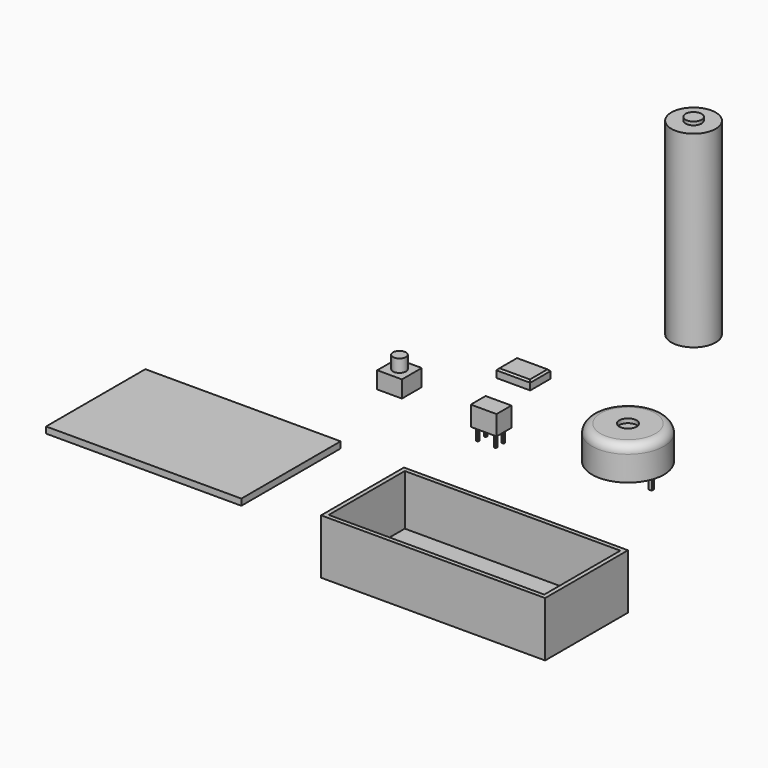
from build123d import *

# Parameters (mm, degrees)
F0_W      = 6.1
F0_H      = 4.39
F1_DEPTH  = 4.65
F2_W      = 0.448795
F2_H      = 0.48622
F2_H_2    = 0.448818
F3_DEPTH  = 3
F4_W      = 5.85
F4_H      = 5.85
F5_DEPTH  = 4
F6_R      = 1.5339
F7_DEPTH  = 3
F8_R      = 8.5
F9_DEPTH  = 7.9
F10_R     = 2
F11_R     = 2.045194
F12_DEPTH = 1
F13_W     = 0.777537
F13_H     = 0.820734
F13_W_2   = 0.777539
F13_H_2   = 0.699977
F14_DEPTH = 4
F15_W     = 8
F15_H     = 6
F16_DEPTH = 2
F17_SIZE  = 0.4
F18_R     = 5.25
F19_DEPTH = 44.5
F20_R     = 1.9
F21_DEPTH = 0.8
F22_W     = 46.203874
F22_H     = 29.349632
F23_DEPTH = 1.5
F24_W     = 53
F24_H     = 24.5
F25_DEPTH = 1
F26_W     = 53
F26_H     = 24.5
F26_W_2   = 51
F26_H_2   = 22.5
F27_DEPTH = 12
F28_R     = 1.5
F29_DEPTH = 1


with BuildPart() as f1:
    # F0 (on Top) → F1 (new body)
    with BuildSketch(Plane.XY):
        Rectangle(F0_W, F0_H)
    extrude(amount=F1_DEPTH)

    # F2 (on face) → F3 (join)
    with BuildSketch(Plane(origin=(0, 0, 0), x_dir=(1, 0, 0), z_dir=(0, 0, -1))):
        with Locations((-2.139867, 1.227854)):
            Rectangle(F2_W, F2_H)
        with Locations((-2.139867, -1.053639)):
            Rectangle(F2_W, F2_H_2)
        with Locations((2.048888, 1.227854)):
            Rectangle(F2_W, F2_H)
        with Locations((2.048888, -1.053639)):
            Rectangle(F2_W, F2_H_2)
    extrude(amount=F3_DEPTH)


with BuildPart() as f5:
    # F4 (on Top) → F5 (new body)
    with BuildSketch(Plane.XY):
        with Locations((-22.972229, 1.6239)):
            Rectangle(F4_W, F4_H)
    extrude(amount=F5_DEPTH)

    # F6 (on face) → F7 (join)
    with BuildSketch(Plane.XY.offset(4)):
        with Locations((-22.972229, 1.6239)):
            Circle(F6_R)
    extrude(amount=F7_DEPTH)


with BuildPart() as f9:
    # F8 (on Top) → F9 (new body)
    with BuildSketch(Plane.XY):
        with Locations((28.258514, 5.165863)):
            Circle(F8_R)
    extrude(amount=F9_DEPTH)

    # F10
    f10_edges = [f9.edges().sort_by_distance(p)[0] for p in [
        (19.758514, 5.165863, 7.9),
    ]]
    fillet(f10_edges, radius=F10_R)

    # F11 (on face) → F12 (cut)
    with BuildSketch(Plane.XY.offset(7.9)):
        with Locations((28.258514, 5.165863)):
            Circle(F11_R)
    extrude(amount=-F12_DEPTH, mode=Mode.SUBTRACT)

    # F13 (on face) → F14 (join)
    with BuildSketch(Plane(origin=(0, 0, 0), x_dir=(1, 0, 0), z_dir=(0, 0, -1))):
        with Locations((22.915408, -5.100402)):
            Rectangle(F13_W, F13_H)
        with Locations((33.844127, -5.104819)):
            Rectangle(F13_W_2, F13_H_2)
    extrude(amount=F14_DEPTH)


with BuildPart() as f16:
    # F15 (on Top) → F16 (new body)
    with BuildSketch(Plane.XY):
        with Locations((-7.572418, 19.042922)):
            Rectangle(F15_W, F15_H)
    extrude(amount=F16_DEPTH)

    # F17
    f17_edges = [f16.edges().sort_by_distance(p)[0] for p in [
        (-7.572418, 16.042922, 2),
        (-7.572418, 22.042922, 2),
        (-3.572418, 19.042922, 2),
        (-11.572418, 19.042922, 2),
    ]]
    chamfer(f17_edges, length=F17_SIZE)


with BuildPart() as f19:
    # F18 (on Top) → F19 (new body)
    with BuildSketch(Plane.XY):
        with Locations((5.946203, 52.445121)):
            Circle(F18_R)
    extrude(amount=F19_DEPTH)

    # F20 (on face) → F21 (join)
    with BuildSketch(Plane.XY.offset(44.5)):
        with Locations((5.946203, 52.445121)):
            Circle(F20_R)
    extrude(amount=F21_DEPTH)


with BuildPart() as f23:
    # F22 (on Top) → F23 (new body)
    with BuildSketch(Plane.XY):
        with Locations((-39.520297, -38.648531)):
            Rectangle(F22_W, F22_H)
    extrude(amount=F23_DEPTH)


with BuildPart() as f25:
    # F24 (on Top) → F25 (new body)
    with BuildSketch(Plane.XY):
        with Locations((39.563232, -54.34875)):
            Rectangle(F24_W, F24_H)
    extrude(amount=F25_DEPTH)

    # F26 (on face) → F27 (join)
    with BuildSketch(Plane.XY.offset(1)):
        with Locations((39.563232, -54.34875)):
            Rectangle(F26_W, F26_H)
        with Locations((39.563232, -54.34875)):
            Rectangle(F26_W_2, F26_H_2, mode=Mode.SUBTRACT)
    extrude(amount=F27_DEPTH)

    # F28 (on face) → F29 (cut, through all)
    with BuildSketch(Plane(origin=(0, 0, 0), x_dir=(1, 0, 0), z_dir=(0, 0, -1))):
        with Locations((23.063232, 57.59875)):
            Circle(F28_R)
        with Locations((40.063232, 54.34875)):
            Circle(F28_R)
        with Locations((54.063232, 51.09875)):
            Circle(F28_R)
    extrude(amount=-F29_DEPTH, mode=Mode.SUBTRACT)


solid = Compound([f1.part, f5.part, f9.part, f16.part, f19.part, f23.part, f25.part])
